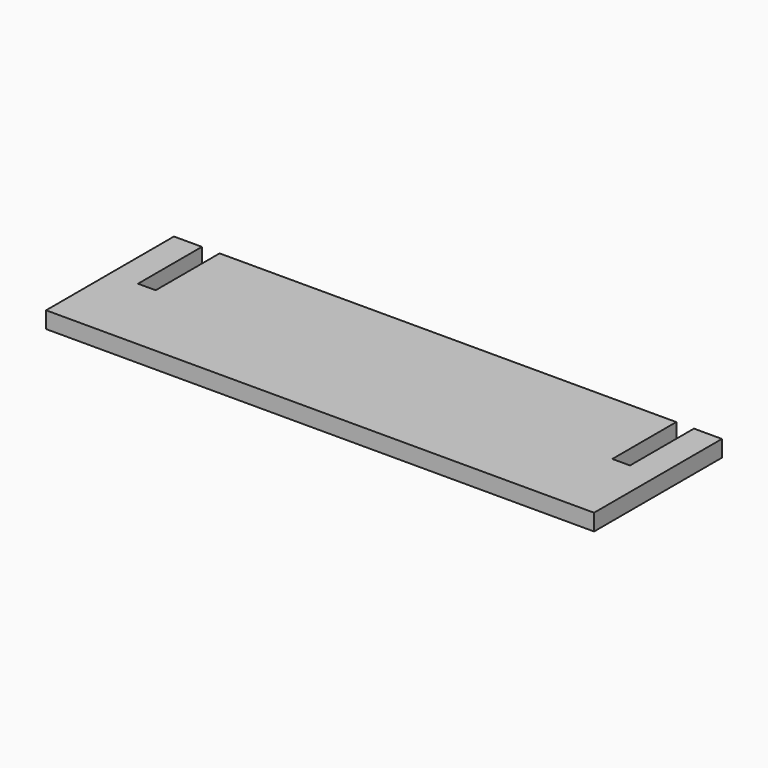
from build123d import *

# Parameters (mm, degrees)
F0_W     = 1219.2
F0_H     = 355.6
F1_DEPTH = 36.83
F2_W     = 39.37
F2_H     = 177.8
F3_DEPTH = 36.83


with BuildPart() as f1:
    # F0 (on Top) → F1 (new body)
    with BuildSketch(Plane.XY):
        Rectangle(F0_W, F0_H)
    extrude(amount=F1_DEPTH)

    # F2 (on face) → F3 (cut, through all)
    with BuildSketch(Plane.XY.offset(36.83)):
        with Locations((-527.685, 88.9)):
            Rectangle(F2_W, F2_H)
        with Locations((527.685, 88.9)):
            Rectangle(F2_W, F2_H)
    extrude(amount=-F3_DEPTH, mode=Mode.SUBTRACT)


solid = f1.part
